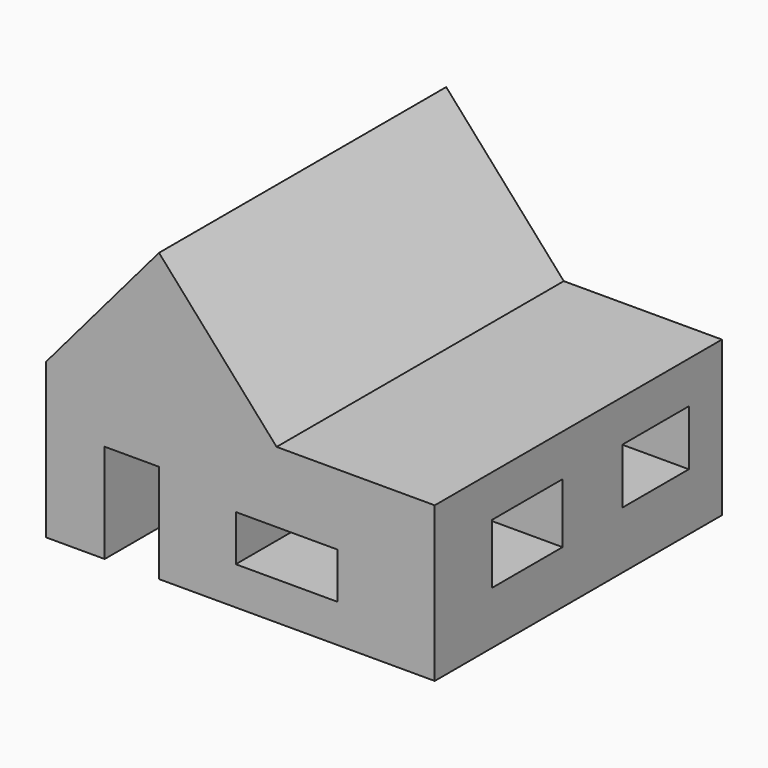
from build123d import *

# Parameters (mm, degrees)
F1_DEPTH = 57.658
F2_W     = 8.732148
F2_H     = 15.885746
F3_DEPTH = 25.4
F4_W     = 14.180422
F4_H     = 9.618062
F5_DEPTH = 25.4
F6_W     = 57.658
F6_H     = 24.840316
F6_W_2   = 14.180422
F6_H_2   = 9.618062
F6_W_3   = 13.320997
F6_H_3   = 8.912906
F7_DEPTH = 25.4
F8_W     = 16.328969
F8_H     = 7.385209
F9_DEPTH = 25.4


with BuildPart() as f1:
    # F0 (on Front) → F1 (new body)
    with BuildSketch(Plane.XZ):
        Polygon((-18.141802, 0), (-18.141802, -24.840316), (18.886082, -24.840316), (18.886082, 0), (0, 21.304989), align=None)
    extrude(amount=F1_DEPTH)

    # F2 (on face) → F3 (cut)
    with BuildSketch(Plane.XZ.offset(57.658)):
        with Locations((-4.366074, -16.897443)):
            Rectangle(F2_W, F2_H)
    extrude(amount=-F3_DEPTH, mode=Mode.SUBTRACT)

    # F4 (on face) → F5 (cut)
    with BuildSketch(Plane.YZ.offset(18.886082)):
        with Locations((-39.082445, -11.540385)):
            Rectangle(F4_W, F4_H)
    extrude(amount=-F5_DEPTH, mode=Mode.SUBTRACT)

    # F6 (on face) → F7 (join)
    with BuildSketch(Plane.YZ.offset(18.886082)):
        with Locations((-28.829, -12.420158)):
            Rectangle(F6_W, F6_H)
        with Locations((-39.082445, -11.540385)):
            Rectangle(F6_W_2, F6_H_2, mode=Mode.SUBTRACT)
        with Locations((-13.299853, -11.187807)):
            Rectangle(F6_W_3, F6_H_3, mode=Mode.SUBTRACT)
    extrude(amount=F7_DEPTH)

    # F8 (on face) → F9 (cut)
    with BuildSketch(Plane.XZ.offset(57.658)):
        with Locations((20.488108, -15.033167)):
            Rectangle(F8_W, F8_H)
    extrude(amount=-F9_DEPTH, mode=Mode.SUBTRACT)


solid = f1.part
